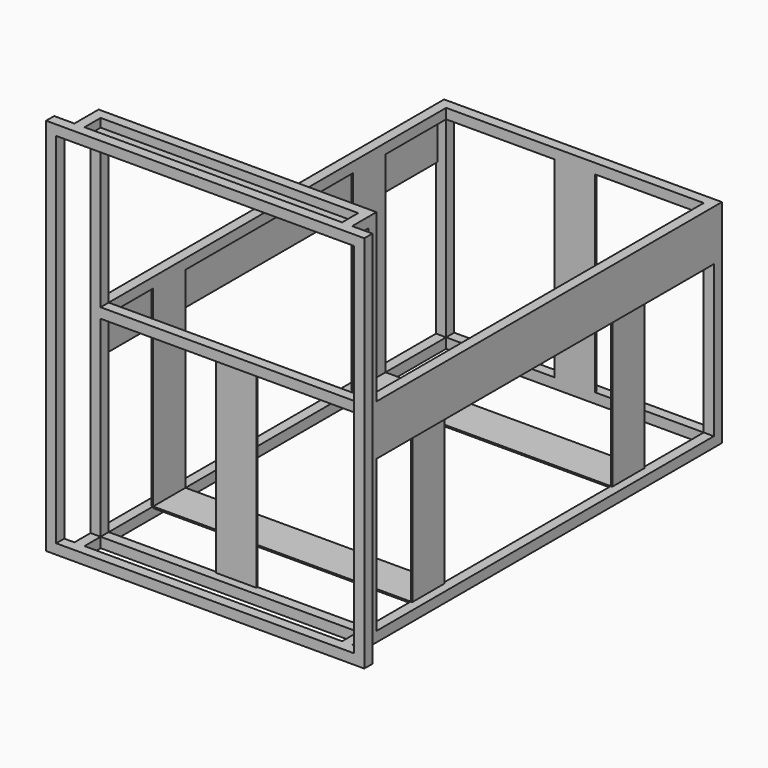
from build123d import *

# Parameters (mm, degrees)
F0_W      = 550
F0_H      = 875
F1_DEPTH  = 20
F2_W      = 510
F2_H      = 835
F3_DEPTH  = 20.001
F4_W      = 80
F4_H      = 3
F5_DEPTH  = 510
F6_W      = 20
F6_H      = 20
F7_DEPTH  = 400
F8_W      = 20
F8_H      = 20
F9_DEPTH  = 835
F10_W     = 20
F10_H     = 20
F11_DEPTH = 835
F12_W     = 20
F12_H     = 20
F13_DEPTH = 510
F15_W     = 3
F15_H     = 80
F16_DEPTH = 835
F17_W     = 3
F17_H     = 80
F18_DEPTH = 835
F19_W     = 20
F19_H     = 20
F20_DEPTH = 510
F14_W     = 80
F14_H     = 3
F14_W_2   = 3
F14_H_2   = 80
F21_DEPTH = 380
F22_DEPTH = 400
F23_W     = 20
F23_H     = 20
F24_DEPTH = 330
F25_W     = 20
F25_H     = 20
F26_DEPTH = 510
F27_W     = 20
F27_H     = 20
F28_DEPTH = 60
F29_W     = 20
F29_H     = 20
F30_DEPTH = 510
F31_W     = 20
F31_H     = 20
F32_DEPTH = 510
F33_W     = 20
F33_H     = 20
F34_DEPTH = 40
F35_W     = 20
F35_H     = 20
F36_DEPTH = 40
F37_W     = 20
F37_H     = 20
F38_DEPTH = 710
F40_DEPTH = 40


with BuildPart() as f1:
    # F0 (on Top) → F1 (new body)
    with BuildSketch(Plane.XY):
        with Locations((132.149377, 45.573115)):
            Rectangle(F0_W, F0_H)
    extrude(amount=F1_DEPTH)

    # F2 (on face) → F3 (cut, through all)
    with BuildSketch(Plane(origin=(0, 0, 0), x_dir=(1, 0, 0), z_dir=(0, 0, -1))):
        with Locations((132.149377, -45.573115)):
            Rectangle(F2_W, F2_H)
    extrude(amount=-F3_DEPTH, mode=Mode.SUBTRACT)

    # F4 (on face) → F5 (join, through all)
    with BuildSketch(Plane.YZ.offset(-122.850623)):
        with Locations((273.073115, 18.5)):
            Rectangle(F4_W, F4_H)
        with Locations((-221.926885, 18.5)):
            Rectangle(F4_W, F4_H)
    extrude(amount=F5_DEPTH)



with BuildPart() as f7:
    # F6 (on face) → F7 (new body)
    with BuildSketch(Plane.XY.offset(20)):
        with Locations((-132.850623, -381.926885)):
            Rectangle(F6_W, F6_H)
        with Locations((397.149377, -381.926885)):
            Rectangle(F6_W, F6_H)
        with Locations((-132.850623, 473.073115)):
            Rectangle(F6_W, F6_H)
        with Locations((397.149377, 473.073115)):
            Rectangle(F6_W, F6_H)
    extrude(amount=F7_DEPTH)

    # F8 (on face) → F9 (join, through all)
    with BuildSketch(Plane(origin=(0, -371.926885, 0), x_dir=(-1, 0, 0), z_dir=(0, 1, 0))):
        with Locations((-397.149377, 410)):
            Rectangle(F8_W, F8_H)
    extrude(amount=F9_DEPTH)

    # F10 (on face) → F11 (join, through all)
    with BuildSketch(Plane.XZ.offset(-463.073115)):
        with Locations((-132.850623, 410)):
            Rectangle(F10_W, F10_H)
    extrude(amount=F11_DEPTH)

    # F12 (on face) → F13 (join, through all)
    with BuildSketch(Plane(origin=(387.149377, 0, 0), x_dir=(0, -1, 0), z_dir=(-1, 0, 0))):
        with Locations((381.926885, 410)):
            Rectangle(F12_W, F12_H)
    extrude(amount=F13_DEPTH)

    # F15 (on face) → F16 (join, through all)
    with BuildSketch(Plane.XZ.offset(-463.073115)):
        with Locations((405.649377, 360)):
            Rectangle(F15_W, F15_H)
    extrude(amount=F16_DEPTH)

    # F17 (on face) → F18 (join, through all)
    with BuildSketch(Plane.XZ.offset(-463.073115)):
        with Locations((-141.350623, 360)):
            Rectangle(F17_W, F17_H)
    extrude(amount=F18_DEPTH)

    # F19 (on face) → F20 (join, through all)
    with BuildSketch(Plane(origin=(387.149377, 0, 0), x_dir=(0, -1, 0), z_dir=(-1, 0, 0))):
        with Locations((-473.073115, 410)):
            Rectangle(F19_W, F19_H)
    extrude(amount=F20_DEPTH)


with BuildPart() as f1_1:
    add(f1.part)

    add(f7.part)  # F21 merges F7
    # F14 (on face) → F21 (join, through all)
    with BuildSketch(Plane.XY.offset(20)):
        with Locations((132.149377, -373.426885)):
            Rectangle(F14_W, F14_H)
        with Locations((132.149377, 464.573115)):
            Rectangle(F14_W, F14_H)
        with Locations((388.649377, 273.073115)):
            Rectangle(F14_W_2, F14_H_2)
        with Locations((388.649377, -221.926885)):
            Rectangle(F14_W_2, F14_H_2)
        with Locations((-124.350623, -221.926885)):
            Rectangle(F14_W_2, F14_H_2)
        with Locations((-124.350623, 273.073115)):
            Rectangle(F14_W_2, F14_H_2)
    extrude(amount=F21_DEPTH)

    # F14 (on face) → F22 (join, through all)
    with BuildSketch(Plane.XY.offset(20)):
        with Locations((132.149377, -373.426885)):
            Rectangle(F14_W, F14_H)
        with Locations((132.149377, 464.573115)):
            Rectangle(F14_W, F14_H)
        with Locations((388.649377, 273.073115)):
            Rectangle(F14_W_2, F14_H_2)
        with Locations((388.649377, -221.926885)):
            Rectangle(F14_W_2, F14_H_2)
        with Locations((-124.350623, -221.926885)):
            Rectangle(F14_W_2, F14_H_2)
        with Locations((-124.350623, 273.073115)):
            Rectangle(F14_W_2, F14_H_2)
    extrude(amount=F22_DEPTH)

    # F23 (on face) → F24 (join)
    with BuildSketch(Plane.XY.offset(420)):
        with Locations((-132.850623, -381.926885)):
            Rectangle(F23_W, F23_H)
        with Locations((397.149377, -381.926885)):
            Rectangle(F23_W, F23_H)
    extrude(amount=F24_DEPTH)

    # F25 (on face) → F26 (join, through all)
    with BuildSketch(Plane(origin=(387.149377, 0, 0), x_dir=(0, -1, 0), z_dir=(-1, 0, 0))):
        with Locations((381.926885, 740)):
            Rectangle(F25_W, F25_H)
    extrude(amount=F26_DEPTH)

    # F27 (on face) → F28 (join)
    with BuildSketch(Plane.XZ.offset(391.926885)):
        with Locations((-132.850623, 10)):
            Rectangle(F27_W, F27_H)
        with Locations((397.149377, 10)):
            Rectangle(F27_W, F27_H)
        with Locations((-132.850623, 740)):
            Rectangle(F27_W, F27_H)
        with Locations((397.149377, 740)):
            Rectangle(F27_W, F27_H)
    extrude(amount=F28_DEPTH)

    # F29 (on face) → F30 (join, through all)
    with BuildSketch(Plane.YZ.offset(-122.850623)):
        with Locations((-441.926885, 740)):
            Rectangle(F29_W, F29_H)
    extrude(amount=F30_DEPTH)

    # F31 (on face) → F32 (join, through all)
    with BuildSketch(Plane(origin=(387.149377, 0, 0), x_dir=(0, -1, 0), z_dir=(-1, 0, 0))):
        with Locations((441.926885, 10)):
            Rectangle(F31_W, F31_H)
    extrude(amount=F32_DEPTH)

    # F33 (on face) → F34 (join)
    with BuildSketch(Plane(origin=(-142.850623, 0, 0), x_dir=(0, -1, 0), z_dir=(-1, 0, 0))):
        with Locations((441.926885, 10)):
            Rectangle(F33_W, F33_H)
        with Locations((441.926885, 740)):
            Rectangle(F33_W, F33_H)
    extrude(amount=F34_DEPTH)

    # F35 (on face) → F36 (join)
    with BuildSketch(Plane.YZ.offset(407.149377)):
        with Locations((-441.926885, 10)):
            Rectangle(F35_W, F35_H)
        with Locations((-441.926885, 740)):
            Rectangle(F35_W, F35_H)
    extrude(amount=F36_DEPTH)

    # F37 (on face) → F38 (join, through all)
    with BuildSketch(Plane(origin=(0, 0, 730), x_dir=(1, 0, 0), z_dir=(0, 0, -1))):
        with Locations((437.149377, 441.926885)):
            Rectangle(F37_W, F37_H)
        with Locations((-172.850623, 441.926885)):
            Rectangle(F37_W, F37_H)
    extrude(amount=F38_DEPTH)

    # F39 (on face) → F40 (join, through all)
    with BuildSketch(Plane.XZ.offset(391.926885)):
        Polygon((114.305049, 733), (-122.850623, 733), (-122.850623, 730), (114.305049, 730), (387.149377, 730), (387.149377, 733), align=None)
    extrude(amount=F40_DEPTH)


solid = f1_1.part
